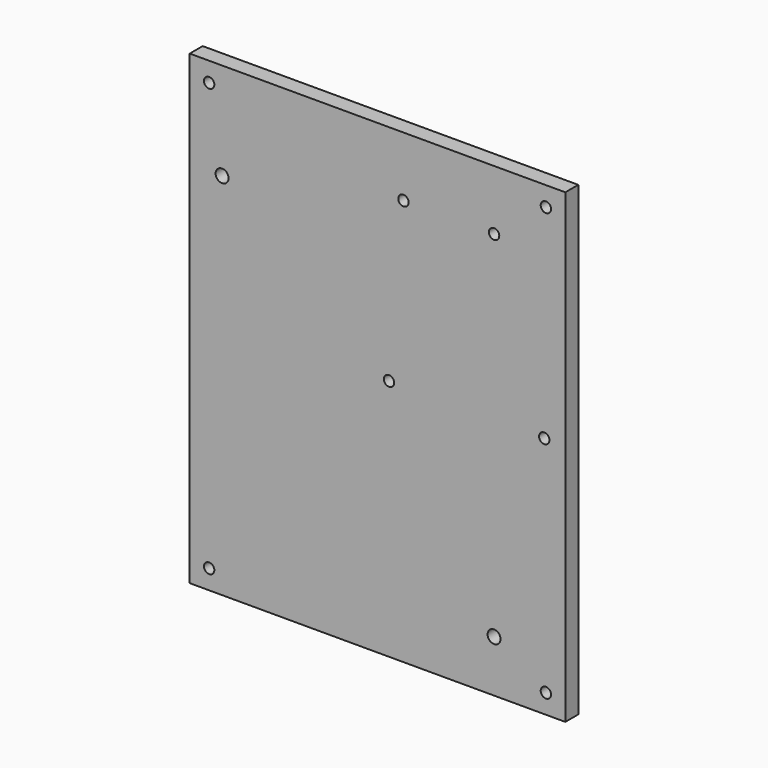
from build123d import *

# Parameters (mm, degrees)
CYLINDER096_R           = 2
CYLINDER096_DEPTH       = 10
CYLINDER096_ROLL_ANGLE  = 90
CYLINDER097_R           = 2
CYLINDER097_DEPTH       = 10
CYLINDER097_ROLL_ANGLE  = 90
CYLINDER026_R           = 1.6
CYLINDER026_DEPTH       = 50
CYLINDER026_ROLL_ANGLE  = 90
CYLINDER025_R           = 1.6
CYLINDER025_DEPTH       = 50
CYLINDER025_ROLL_ANGLE  = 90
CYLINDER028_R           = 1.6
CYLINDER028_DEPTH       = 50
CYLINDER028_ROLL_ANGLE  = 90
CYLINDER027_R           = 1.6
CYLINDER027_DEPTH       = 50
CYLINDER027_ROLL_ANGLE  = 90
CYLINDER019_R           = 1.6
CYLINDER019_DEPTH       = 40
CYLINDER019_PITCH_ANGLE = 90
CYLINDER018_R           = 1.6
CYLINDER018_DEPTH       = 40
CYLINDER018_PITCH_ANGLE = 90
CYLINDER017_R           = 1.6
CYLINDER017_DEPTH       = 40
CYLINDER016_R           = 1.6
CYLINDER016_DEPTH       = 70
CYLINDER016_ROLL_ANGLE  = 90
CYLINDER015_R           = 1.6
CYLINDER015_DEPTH       = 40
BOX011_W                = 116
BOX011_H                = 5
BOX011_DEPTH            = 144


with BuildPart() as cylinder373:
    # Cylinder096 → Cylinder096 (new body)
    with BuildSketch(Plane.XY):
        Circle(CYLINDER096_R)
    extrude(amount=CYLINDER096_DEPTH)


with BuildPart() as cylinder373_1:
    # Cylinder096 roll: moved
    add(cylinder373.part.rotate(Axis((0, 0, 0), (1, 0, 0)), CYLINDER096_ROLL_ANGLE))


with BuildPart() as cylinder373_2:
    # Cylinder096 placement: moved
    add(cylinder373_1.part.moved(Location((-20, -15, 114))))


with BuildPart() as cylinder374:
    # Cylinder097 → Cylinder097 (new body)
    with BuildSketch(Plane.XY):
        Circle(CYLINDER097_R)
    extrude(amount=CYLINDER097_DEPTH)


with BuildPart() as cylinder374_1:
    # Cylinder097 roll: moved
    add(cylinder374.part.rotate(Axis((0, 0, 0), (1, 0, 0)), CYLINDER097_ROLL_ANGLE))


with BuildPart() as cylinder374_2:
    # Cylinder097 placement: moved
    add(cylinder374_1.part.moved(Location((64, -15, 16))))


with BuildPart() as cylinder033:
    # Cylinder026 → Cylinder026 (new body)
    with BuildSketch(Plane.XY):
        Circle(CYLINDER026_R)
    extrude(amount=CYLINDER026_DEPTH)


with BuildPart() as cylinder033_1:
    # Cylinder026 roll: moved
    add(cylinder033.part.rotate(Axis((0, 0, 0), (1, 0, 0)), CYLINDER026_ROLL_ANGLE))


with BuildPart() as cylinder033_2:
    # Cylinder026 placement: moved
    add(cylinder033_1.part.moved(Location((26.54, 7, 54))))


with BuildPart() as fusion031:
    # Cylinder025 → Cylinder025 (new body)
    with BuildSketch(Plane.XY):
        Circle(CYLINDER025_R)
    extrude(amount=CYLINDER025_DEPTH)


with BuildPart() as fusion031_1:
    # Cylinder025 roll: moved
    add(fusion031.part.rotate(Axis((0, 0, 0), (1, 0, 0)), CYLINDER025_ROLL_ANGLE))


with BuildPart() as fusion031_2:
    # Cylinder025 placement: moved
    add(fusion031_1.part.moved(Location((74.5, 7, 54))))

    # Fusion031: union Cylinder033
    add(cylinder033_2.part)


with BuildPart() as fusion032:
    # Cylinder028 → Cylinder028 (new body)
    with BuildSketch(Plane.XY):
        Circle(CYLINDER028_R)
    extrude(amount=CYLINDER028_DEPTH)


with BuildPart() as fusion032_1:
    # Cylinder028 roll: moved
    add(fusion032.part.rotate(Axis((0, 0, 0), (1, 0, 0)), CYLINDER028_ROLL_ANGLE))


with BuildPart() as fusion032_2:
    # Cylinder028 placement: moved
    add(fusion032_1.part.moved(Location((31, 7, 104.5))))

    # Fusion032: union Fusion031
    add(fusion031_2.part)


with BuildPart() as arduino_holes:
    # Cylinder027 → Cylinder027 (new body)
    with BuildSketch(Plane.XY):
        Circle(CYLINDER027_R)
    extrude(amount=CYLINDER027_DEPTH)


with BuildPart() as arduino_holes_1:
    # Cylinder027 roll: moved
    add(arduino_holes.part.rotate(Axis((0, 0, 0), (1, 0, 0)), CYLINDER027_ROLL_ANGLE))


with BuildPart() as arduino_holes_2:
    # Cylinder027 placement: moved
    add(arduino_holes_1.part.moved(Location((59, 7, 104.5))))

    # Fusion033: union Fusion032
    add(fusion032_2.part)


with BuildPart() as arduino_holes_3:
    # Fusion033 placement: moved
    add(arduino_holes_2.part.moved(Location((5, 0, 21))))


with BuildPart() as cylinder100:
    # Cylinder019 → Cylinder019 (new body)
    with BuildSketch(Plane.XY):
        Circle(CYLINDER019_R)
    extrude(amount=CYLINDER019_DEPTH)


with BuildPart() as cylinder100_1:
    # Cylinder019 pitch: moved
    add(cylinder100.part.rotate(Axis((0, 0, 0), (0, 1, 0)), CYLINDER019_PITCH_ANGLE))


with BuildPart() as cylinder100_2:
    # Cylinder019 placement: moved
    add(cylinder100_1.part.moved(Location((-40, 12, 9.5))))


with BuildPart() as fusion011:
    # Cylinder018 → Cylinder018 (new body)
    with BuildSketch(Plane.XY):
        Circle(CYLINDER018_R)
    extrude(amount=CYLINDER018_DEPTH)


with BuildPart() as fusion011_1:
    # Cylinder018 pitch: moved
    add(fusion011.part.rotate(Axis((0, 0, 0), (0, 1, 0)), CYLINDER018_PITCH_ANGLE))


with BuildPart() as fusion011_2:
    # Cylinder018 placement: moved
    add(fusion011_1.part.moved(Location((-40, -7, 2.5))))

    # Fusion011: union Cylinder100
    add(cylinder100_2.part)


with BuildPart() as fusion012:
    # Cylinder017 → Cylinder017 (new body)
    with BuildSketch(Plane(origin=(-27.5, 7, -15), x_dir=(1, 0, 0), z_dir=(0, 0, 1))):
        Circle(CYLINDER017_R)
    extrude(amount=CYLINDER017_DEPTH)

    # Fusion012: union Fusion011
    add(fusion011_2.part)


with BuildPart() as fusion013:
    # Cylinder016 → Cylinder016 (new body)
    with BuildSketch(Plane.XY):
        Circle(CYLINDER016_R)
    extrude(amount=CYLINDER016_DEPTH)


with BuildPart() as fusion013_1:
    # Cylinder016 roll: moved
    add(fusion013.part.rotate(Axis((0, 0, 0), (1, 0, 0)), CYLINDER016_ROLL_ANGLE))


with BuildPart() as fusion013_2:
    # Cylinder016 placement: moved
    add(fusion013_1.part.moved(Location((-24, 39, 6))))

    # Fusion013: union Fusion012
    add(fusion012.part)


with BuildPart() as cylinder008:
    # Cylinder015 → Cylinder015 (new body)
    with BuildSketch(Plane(origin=(-20.5, -12, -15), x_dir=(1, 0, 0), z_dir=(0, 0, 1))):
        Circle(CYLINDER015_R)
    extrude(amount=CYLINDER015_DEPTH)


with BuildPart() as face_corner_holes015:
    # Fusion029 base: copy of Cylinder008
    add(cylinder008.part)

    # Fusion029: union Fusion013
    add(fusion013_2.part)


with BuildPart() as face_corner_holes015_1:
    # Fusion029 placement: moved
    add(face_corner_holes015.part.moved(Location((104, 0, 132))))


with BuildPart() as face_corner_holes011:
    # Fusion025 base: copy of Cylinder008
    add(cylinder008.part)

    # Fusion025: union Fusion013
    add(fusion013_2.part)


with BuildPart() as face_corner_holes011_1:
    # Fusion025 placement: moved
    add(face_corner_holes011.part.moved(Location((0, 0, 132))))


with BuildPart() as face_corner_holes007:
    # Fusion021 base: copy of Cylinder008
    add(cylinder008.part)

    # Fusion021: union Fusion013
    add(fusion013_2.part)


with BuildPart() as face_corner_holes007_1:
    # Fusion021 placement: moved
    add(face_corner_holes007.part.moved(Location((104, 0, 0))))


with BuildPart() as face_corner_holes004:
    # Fusion018 base: copy of Cylinder008
    add(cylinder008.part)

    # Fusion018: union Fusion013
    add(fusion013_2.part)


with BuildPart() as back_a:
    # Box011 → Box011 (new body)
    with BuildSketch(Plane(origin=(-30, -23, 0), x_dir=(1, 0, 0), z_dir=(0, 0, 1))):
        with Locations((58, 2.5)):
            Rectangle(BOX011_W, BOX011_H)
    extrude(amount=BOX011_DEPTH)

    # Cut013: cut face-corner-holes004
    add(face_corner_holes004.part, mode=Mode.SUBTRACT)

    # Cut017: cut face-corner-holes007
    add(face_corner_holes007_1.part, mode=Mode.SUBTRACT)

    # Cut022: cut face-corner-holes011
    add(face_corner_holes011_1.part, mode=Mode.SUBTRACT)

    # Cut027: cut face-corner-holes015
    add(face_corner_holes015_1.part, mode=Mode.SUBTRACT)

    # Cut028: cut arduino-holes
    add(arduino_holes_3.part, mode=Mode.SUBTRACT)

    # Cut057: cut Cylinder374
    add(cylinder374_2.part, mode=Mode.SUBTRACT)

    # Cut058: cut Cylinder373
    add(cylinder373_2.part, mode=Mode.SUBTRACT)


solid = back_a.part
